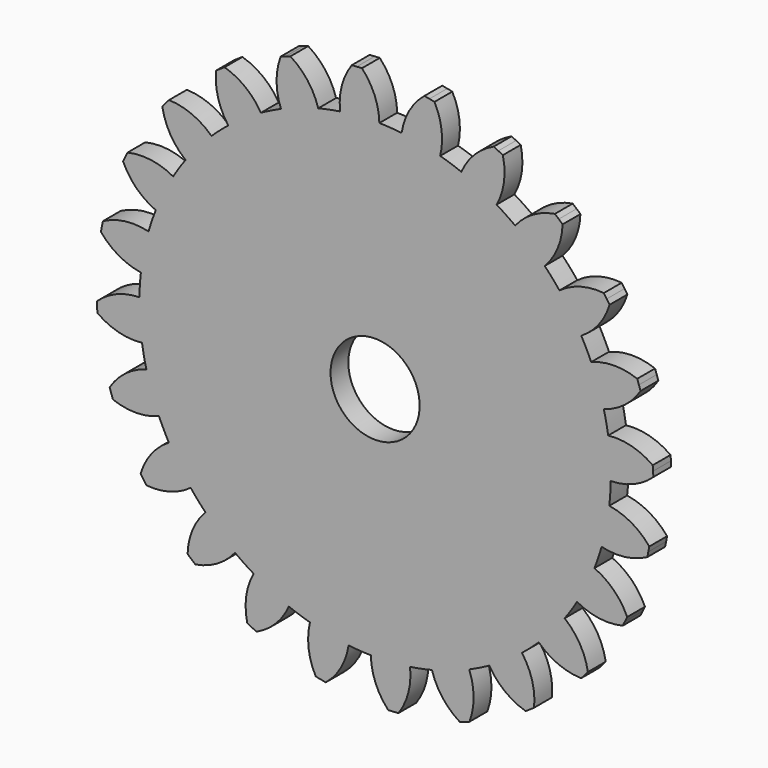
from build123d import *

# Parameters (mm, degrees)
F1_DEPTH = 2
F2_COUNT = 24
F4_D     = 8


with BuildPart() as f1:
    # F0 (on Front) → F1 (new body)
    with BuildSketch(Plane.XZ):
        with BuildLine():
            ThreePointArc((-3.140047, 20.915607), (-13.800553, -16.027078), (21.15, 0))
            ThreePointArc((21.15, 0), (15.090164, 14.819226), (0.383149, 21.146529))
            ThreePointArc((0.383149, 21.146529), (-0.500501, 21.144077), (-1.383276, 21.104716))
            ThreePointArc((-1.383276, 21.104716), (-2.263637, 21.028515), (-3.140047, 20.915607))
        make_face()
        with BuildLine():
            ThreePointArc((-2.092742, 24.912255), (-2.987759, 23.011245), (-3.140047, 20.915607))
            ThreePointArc((-3.140047, 20.915607), (-2.263637, 21.028515), (-1.383276, 21.104716))
            Line((-1.383276, 21.104716), (-1.635023, 24.945625))
            ThreePointArc((-1.635023, 24.945625), (-1.863943, 24.929779), (-2.092742, 24.912255))
        make_face()
        with BuildLine():
            ThreePointArc((-1.383276, 21.104716), (-0.500501, 21.144077), (0.383149, 21.146529))
            ThreePointArc((0.383149, 21.146529), (-0.041372, 23.204362), (-1.176863, 24.972284))
            ThreePointArc((-1.176863, 24.972284), (-1.405992, 24.959794), (-1.635023, 24.945625))
            Line((-1.635023, 24.945625), (-1.383276, 21.104716))
        make_face()
    extrude(amount=F1_DEPTH)

    # F2: F1 ×24 about axis
    f2_axis = Axis((0, 0, 0), (0, -1, 0))


with BuildPart() as f1_1:
    add(f1.part)
    for i in range(1, F2_COUNT):
        add(f1.part.rotate(f2_axis, i * 360 / F2_COUNT))

    # F4 (through all)
    with Locations(Plane.XZ.offset(2)):
        with Locations((0, 0)):
            Hole(F4_D / 2)


solid = f1_1.part
